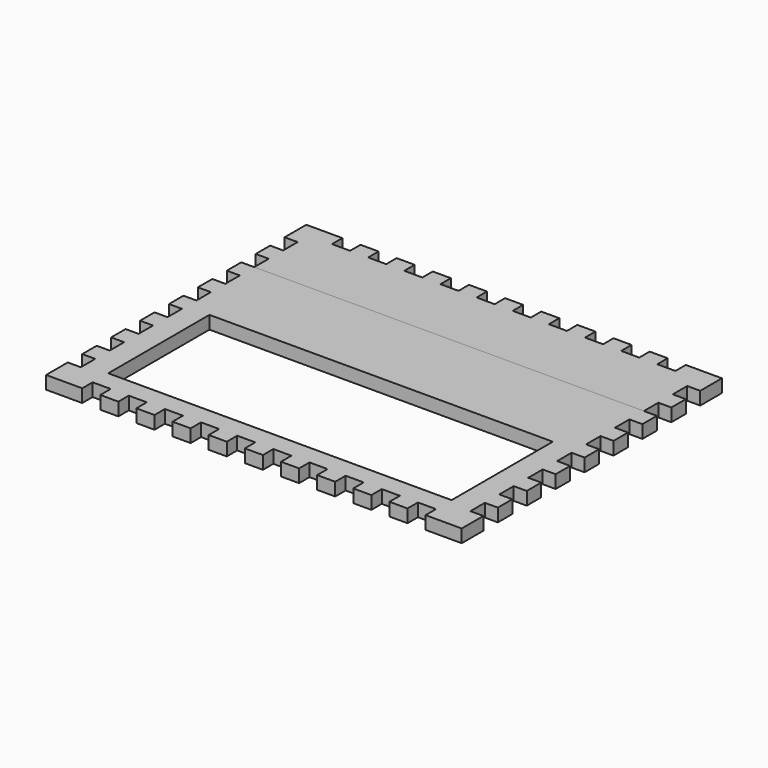
from build123d import *

# Parameters (mm, degrees)
F1_DEPTH = 9.144
F0_W     = 241.3
F0_H     = 88.9
F2_DEPTH = 9.144


with BuildPart() as f1:
    # F0 (on Top) → F1 (new body)
    with BuildSketch(Plane.XY):
        Polygon((25.4, 0), (0, 0), (0, -19.05), (9.144, -19.05), (9.144, -31.75), (0, -31.75), (0, -44.45), (9.144, -44.45), (9.144, -57.15), (282.956, -57.15), (282.956, -44.45), (292.1, -44.45), (292.1, -31.75), (282.956, -31.75), (282.956, -19.05), (292.1, -19.05), (292.1, 0), (266.7, 0), (266.7, -9.144), (254, -9.144), (254, 0), (241.3, 0), (241.3, -9.144), (228.6, -9.144), (228.6, 0), (215.9, 0), (215.9, -9.144), (203.2, -9.144), (203.2, 0), (190.5, 0), (190.5, -9.144), (177.8, -9.144), (177.8, 0), (165.1, 0), (165.1, -9.144), (152.4, -9.144), (152.4, 0), (139.7, 0), (139.7, -9.144), (127, -9.144), (127, 0), (114.3, 0), (114.3, -9.144), (101.6, -9.144), (101.6, 0), (88.9, 0), (88.9, -9.144), (76.2, -9.144), (76.2, 0), (63.5, 0), (63.5, -9.144), (50.8, -9.144), (50.8, 0), (38.1, 0), (38.1, -9.144), (25.4, -9.144), align=None)
    extrude(amount=F1_DEPTH)


with BuildPart() as f2:
    # F0 (on Top) → F2 (new body)
    with BuildSketch(Plane.XY):
        Polygon((282.956, -57.15), (9.144, -57.15), (0, -57.15), (0, -69.85), (9.144, -69.85), (9.144, -82.55), (0, -82.55), (0, -95.25), (9.144, -95.25), (9.144, -107.95), (0, -107.95), (0, -120.65), (9.144, -120.65), (9.144, -133.35), (0, -133.35), (0, -146.05), (9.144, -146.05), (9.144, -158.75), (0, -158.75), (0, -171.45), (9.144, -171.45), (9.144, -184.15), (0, -184.15), (0, -196.85), (9.144, -196.85), (9.144, -209.55), (0, -209.55), (0, -228.6), (25.4, -228.6), (25.4, -219.456), (38.1, -219.456), (38.1, -228.6), (50.8, -228.6), (50.8, -219.456), (63.5, -219.456), (63.5, -228.6), (76.2, -228.6), (76.2, -219.456), (88.9, -219.456), (88.9, -228.6), (101.6, -228.6), (101.6, -219.456), (114.3, -219.456), (114.3, -228.6), (127, -228.6), (127, -219.456), (139.7, -219.456), (139.7, -228.6), (152.4, -228.6), (152.4, -219.456), (165.1, -219.456), (165.1, -228.6), (177.8, -228.6), (177.8, -219.456), (190.5, -219.456), (190.5, -228.6), (203.2, -228.6), (203.2, -219.456), (215.9, -219.456), (215.9, -228.6), (228.6, -228.6), (228.6, -219.456), (241.3, -219.456), (241.3, -228.6), (254, -228.6), (254, -219.456), (266.7, -219.456), (266.7, -228.6), (292.1, -228.6), (292.1, -209.55), (282.956, -209.55), (282.956, -196.85), (292.1, -196.85), (292.1, -184.15), (282.956, -184.15), (282.956, -171.45), (292.1, -171.45), (292.1, -158.75), (282.956, -158.75), (282.956, -146.05), (292.1, -146.05), (292.1, -133.35), (282.956, -133.35), (282.956, -120.65), (292.1, -120.65), (292.1, -107.95), (282.956, -107.95), (282.956, -95.25), (292.1, -95.25), (292.1, -82.55), (282.956, -82.55), (282.956, -69.85), (292.1, -69.85), (292.1, -57.15), align=None)
        with Locations((146.05, -161.29)):
            Rectangle(F0_W, F0_H, mode=Mode.SUBTRACT)
    extrude(amount=F2_DEPTH)


solid = Compound([f1.part, f2.part])
